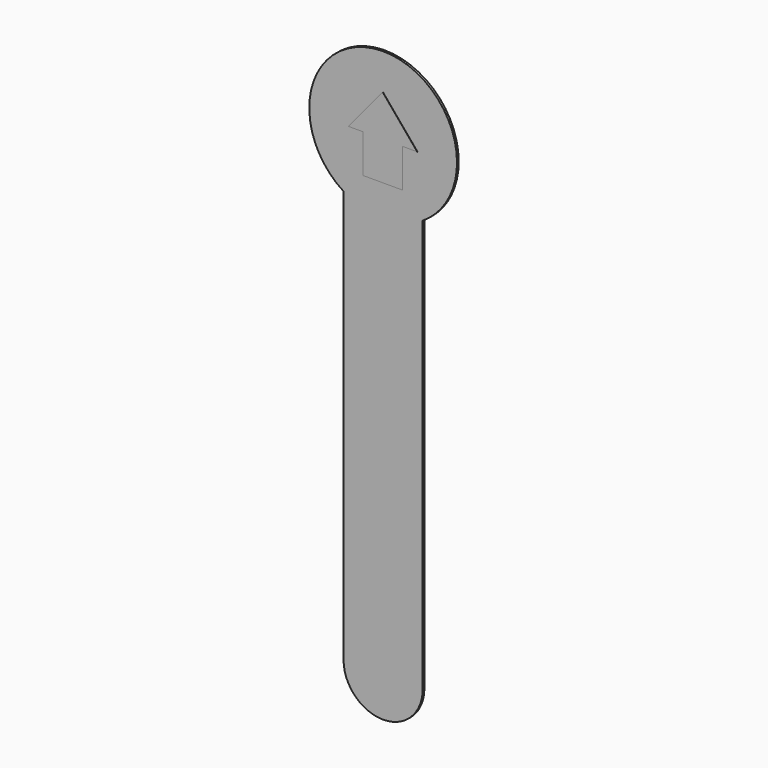
from build123d import *

# Parameters (mm, degrees)
F1_DEPTH = 0.127
F3_DEPTH = 0.0254


with BuildPart() as f1:
    # F0 (on Front) → F1 (new body, symmetric)
    with BuildSketch(Plane.XZ):
        with BuildLine():
            ThreePointArc((4.709938, -7.499093), (7.737622, -4.275762), (8.837585, 0.007556))
            ThreePointArc((8.837585, 0.007556), (-4.335454, 7.797314), (-4.814211, -7.499093))
            ThreePointArc((-4.814211, -7.499093), (-0.052136, -8.882165), (4.709938, -7.499093))
        make_face()
        with BuildLine():
            ThreePointArc((4.709938, -7.499093), (-0.052136, -8.882165), (-4.814211, -7.499093))
            Line((-4.814211, -7.499093), (-4.814211, -57.146367))
            ThreePointArc((-4.814211, -57.146367), (-0.052136, -52.384292), (4.709938, -57.146367))
            Line((4.709938, -57.146367), (4.709938, -7.499093))
        make_face()
        with BuildLine():
            ThreePointArc((4.709938, -57.146367), (-0.052136, -52.384292), (-4.814211, -57.146367))
            ThreePointArc((-4.814211, -57.146367), (-0.052136, -61.908441), (4.709938, -57.146367))
        make_face()
    extrude(amount=F1_DEPTH, both=True)


with BuildPart() as f3:
    # F2 (on face) → F3 (new body)
    with BuildSketch(Plane.XZ.offset(0.127)):
        Polygon((-2.455517, -0.401644), (-2.455517, -5.034333), (2.288803, -5.034333), (2.288803, -0.401644), (4.0749, -0.401644), (-0.083357, 4.565939), (-4.228331, -0.401644), align=None)
    extrude(amount=F3_DEPTH)


solid = Compound([f1.part, f3.part])
